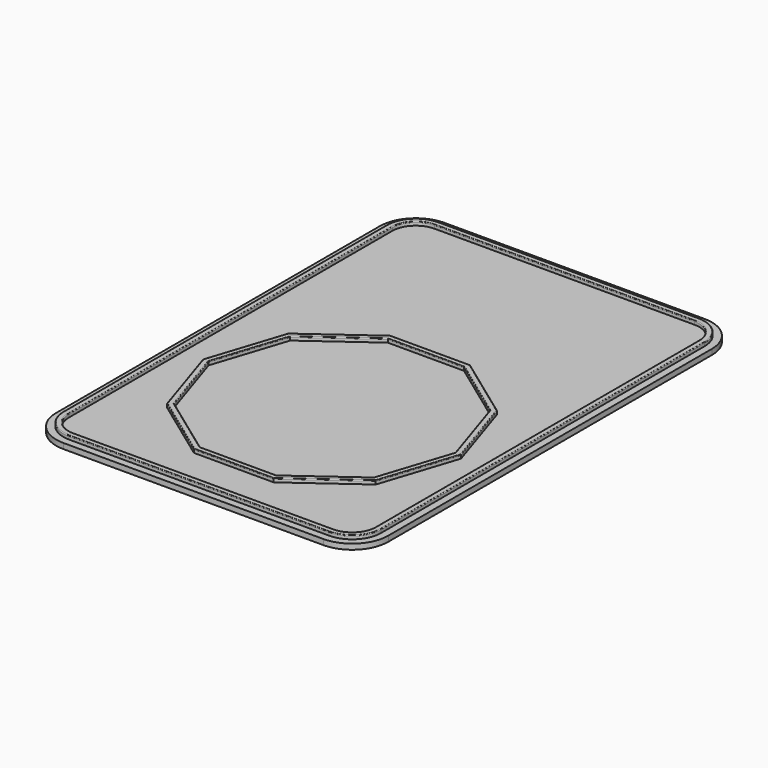
from build123d import *

# Parameters (mm, degrees)
F3_DEPTH = 1
F4_R     = 0.2
F6_DEPTH = 1.5


with BuildPart() as f3:
    # F1 (on Top) + F2 (on Top) → F3 (new body)
    with BuildSketch(Plane.XY):
        Polygon((-11.04727, 87.93359), (-28.922127, 74.946746), (-35.749716, 53.93359), (-28.922127, 32.920435), (-11.04727, 19.93359), (11.04727, 19.93359), (28.922127, 32.920435), (35.749716, 53.93359), (28.922127, 74.946746), (11.04727, 87.93359), align=None)
        Polygon((-10.55989, 86.43359), (10.55989, 86.43359), (27.646151, 74.019695), (34.172522, 53.93359), (27.646151, 33.847485), (10.55989, 21.43359), (-10.55989, 21.43359), (-27.646151, 33.847485), (-34.172522, 53.93359), (-27.646151, 74.019695), align=None, mode=Mode.SUBTRACT)
    with BuildSketch(Plane.XY):
        with BuildLine():
            Line((36, 135.93359), (-36, 135.93359))
            ThreePointArc((-36, 135.93359), (-41.656854, 133.590444), (-44, 127.93359))
            Line((-44, 127.93359), (-44, 15.93359))
            ThreePointArc((-44, 15.93359), (-41.656854, 10.276736), (-36, 7.93359))
            Line((-36, 7.93359), (36, 7.93359))
            ThreePointArc((36, 7.93359), (41.656854, 10.276736), (44, 15.93359))
            Line((44, 15.93359), (44, 127.93359))
            ThreePointArc((44, 127.93359), (41.656854, 133.590444), (36, 135.93359))
        make_face()
        with BuildLine():
            ThreePointArc((-42.5, 127.93359), (-40.596194, 132.529784), (-36, 134.43359))
            Line((-36, 134.43359), (36, 134.43359))
            ThreePointArc((36, 134.43359), (40.596194, 132.529784), (42.5, 127.93359))
            Line((42.5, 127.93359), (42.5, 15.93359))
            ThreePointArc((42.5, 15.93359), (40.596194, 11.337396), (36, 9.43359))
            Line((36, 9.43359), (-36, 9.43359))
            ThreePointArc((-36, 9.43359), (-40.596194, 11.337396), (-42.5, 15.93359))
            Line((-42.5, 15.93359), (-42.5, 127.93359))
        make_face(mode=Mode.SUBTRACT)
    extrude(amount=F3_DEPTH)

    # F4
    f4_edges = [f3.edges().sort_by_distance(p)[0] for p in [
        (44, 71.93359, 1),
        (41.656854, 133.590444, 1),
        (0, 135.93359, 1),
        (-41.656854, 133.590444, 1),
        (-44, 71.93359, 1),
        (-41.656854, 10.276736, 1),
        (0, 7.93359, 1),
        (41.656854, 10.276736, 1),
        (-42.5, 71.93359, 1),
        (-40.596194, 132.529784, 1),
        (0, 134.43359, 1),
        (40.596194, 132.529784, 1),
        (42.5, 71.93359, 1),
        (40.596194, 11.337396, 1),
        (0, 9.43359, 1),
        (-40.596194, 11.337396, 1),
        (19.984699, 81.440168, 1),
        (0, 87.93359, 1),
        (-19.984699, 81.440168, 1),
        (-32.335922, 64.440168, 1),
        (-32.335922, 43.427012, 1),
        (-19.984699, 26.427012, 1),
        (0, 19.93359, 1),
        (19.984699, 26.427012, 1),
        (32.335922, 43.427012, 1),
        (32.335922, 64.440168, 1),
        (-30.909337, 63.976642, 1),
        (-19.103021, 80.226642, 1),
        (0, 86.43359, 1),
        (19.103021, 80.226642, 1),
        (30.909337, 63.976642, 1),
        (30.909337, 43.890538, 1),
        (19.103021, 27.640538, 1),
        (0, 21.43359, 1),
        (-19.103021, 27.640538, 1),
        (-30.909337, 43.890538, 1),
    ]]
    fillet(f4_edges, radius=F4_R)


with BuildPart() as f6:
    # F0 (on Top) → F6 (new body)
    with BuildSketch(Plane.XY):
        with BuildLine():
            Line((36, 137.93359), (-36, 137.93359))
            ThreePointArc((-36, 137.93359), (-43.071068, 135.004658), (-46, 127.93359))
            Line((-46, 127.93359), (-46, 71.93359))
            Line((-46, 71.93359), (-46, 15.93359))
            ThreePointArc((-46, 15.93359), (-43.071068, 8.862522), (-36, 5.93359))
            Line((-36, 5.93359), (36, 5.93359))
            ThreePointArc((36, 5.93359), (43.071068, 8.862522), (46, 15.93359))
            Line((46, 15.93359), (46, 127.93359))
            ThreePointArc((46, 127.93359), (43.071068, 135.004658), (36, 137.93359))
        make_face()
    extrude(amount=-F6_DEPTH)


solid = Compound([f3.part, f6.part])
